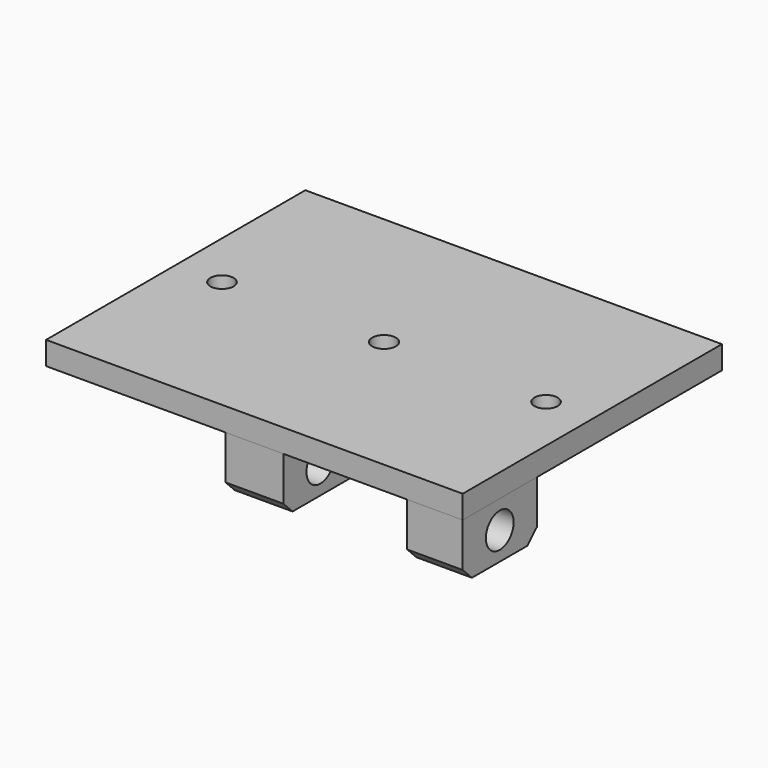
from build123d import *

# Parameters (mm, degrees)
F0_W       = 140
F0_H       = 10
F1_DEPTH   = 90
F0_H_2     = 24
F0_R       = 7.5
F2_DEPTH   = 12.5
F3_R       = 5.1
F2_FACE_W  = 25
F2_FACE_H  = 140
F4_DEPTH   = 34.001
F6_W       = 40
F6_H       = 24
F6_R       = 7.5
F7_DEPTH   = 24
F8_R       = 5.1
F9_DEPTH   = 34.001
F10_R      = 5
F11_DEPTH  = 34.001
F12_SIZE   = 5
F12_2_SIZE = 5
F13_R      = 5
F14_DEPTH  = 102.501


with BuildPart() as f1:
    # F0 (on Right) → F1 (new body, symmetric)
    with BuildSketch(Plane.YZ):
        with Locations((0, -5)):
            Rectangle(F0_W, F0_H)
    extrude(amount=F1_DEPTH, both=True)


with BuildPart() as f2:
    # F0 (on Right) → F2 (new body, symmetric)
    with BuildSketch(Plane.YZ):
        with Locations((0, -22)):
            Rectangle(F0_W, F0_H_2)
        with Locations((-50, -22)):
            Circle(F0_R, mode=Mode.SUBTRACT)
        with Locations((50, -22)):
            Circle(F0_R, mode=Mode.SUBTRACT)
    extrude(amount=F2_DEPTH, both=True)


with BuildPart() as f4_tool:
    # F3 (on face) + F2_face (on face) → F4 (new body, through all)
    with BuildSketch(Plane.XY):
        Circle(F3_R)
    with BuildSketch(Plane(origin=(0, 0, -34), x_dir=(1, 0, 0), z_dir=(0, 0, -1))):
        Rectangle(F2_FACE_W, F2_FACE_H)
    extrude(amount=-F4_DEPTH, dir=(0, 0, 1))


with BuildPart() as f1_1:
    add(f1.part)

    # F4: cut by f4_tool
    add(f4_tool.part, mode=Mode.SUBTRACT)

    # F8 (on face) → F9 (cut, through all)
    with BuildSketch(Plane.XY):
        Circle(F8_R)
    extrude(amount=-F9_DEPTH, mode=Mode.SUBTRACT)

    # F10 (on face) → F11 (cut, through all)
    with BuildSketch(Plane.XY):
        with Locations((-70, 0)):
            Circle(F10_R)
        with Locations((70, 0)):
            Circle(F10_R)
    extrude(amount=-F11_DEPTH, mode=Mode.SUBTRACT)


with BuildPart() as f2_1:
    add(f2.part)

    # F4: cut by f4_tool
    add(f4_tool.part, mode=Mode.SUBTRACT)

    # F12#2
    f12_2_edges = [f2_1.edges().sort_by_distance(p)[0] for p in [
        (0, -70, -34),
        (0, 70, -34),
    ]]
    chamfer(f12_2_edges, length=F12_2_SIZE)

    # F13 (on face) → F14 (cut, through all)
    with BuildSketch(Plane.YZ.offset(12.5)):
        with Locations((-18, -22)):
            Circle(F13_R)
    extrude(amount=-F14_DEPTH, mode=Mode.SUBTRACT)


with BuildPart() as f7:
    # F6 (on offset) → F7 (new body)
    with BuildSketch(Plane.YZ.offset(90)):
        with Locations((-50, -22)):
            Rectangle(F6_W, F6_H)
        with Locations((-50, -22)):
            Circle(F6_R, mode=Mode.SUBTRACT)
    extrude(amount=-F7_DEPTH)

    # F12
    f12_edges = [f7.edges().sort_by_distance(p)[0] for p in [
        (78, -70, -34),
        (78, -30, -34),
    ]]
    chamfer(f12_edges, length=F12_SIZE)


solid = Compound([f1_1.part, f2_1.part, f7.part])
